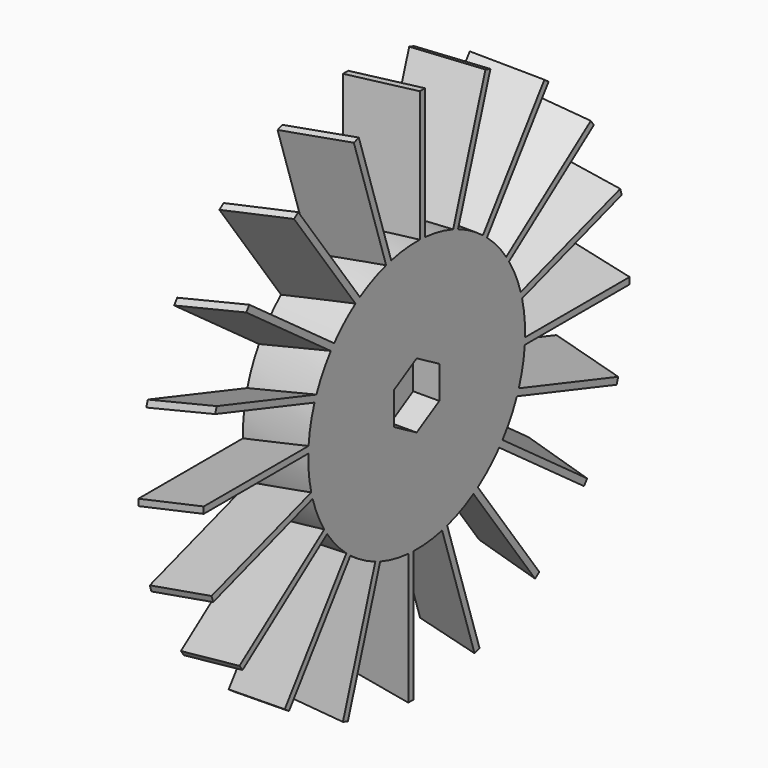
from build123d import *

# Parameters (mm, degrees)
SKETCH_R           = 10.375
PAD_DEPTH          = 5
POCKET_DEPTH       = 2
PAD001_DEPTH       = 10
PAD001_DEPTH_BACK  = 1
POLARPATTERN_COUNT = 20


with BuildPart() as part:
    # Sketch → Pad (new body)
    with BuildSketch(Plane.YZ):
        Circle(SKETCH_R)
    extrude(amount=PAD_DEPTH)

    # Sketch001 (on Face3 of Pad) → Pocket (cut)
    with BuildSketch(Plane.YZ.offset(5)):
        Polygon((2.165064, 1.25), (0, 2.5), (-2.165064, 1.25), (-2.165064, -1.25), (0, -2.5), (2.165064, -1.25), align=None)
    extrude(amount=-POCKET_DEPTH, mode=Mode.SUBTRACT)

    # Sketch002 (on DatumPlane) → Pad001 (join, two sides)
    with BuildSketch(Plane.ZX.offset(10.375)) as pad001_sk:
        Polygon((0.8, 0), (-0.3, 5), (-0.8, 5), (0.3, 0), align=None)
    pad001 = extrude(amount=PAD001_DEPTH) + extrude(pad001_sk.sketch, amount=-PAD001_DEPTH_BACK)

    # PolarPattern: Pad001 ×20 about axis
    polarpattern_axis = Axis((0, 0, 0), (1, 0, 0))
    for i in range(1, POLARPATTERN_COUNT):
        add(pad001.rotate(polarpattern_axis, i * 360 / POLARPATTERN_COUNT))


solid = part.part
